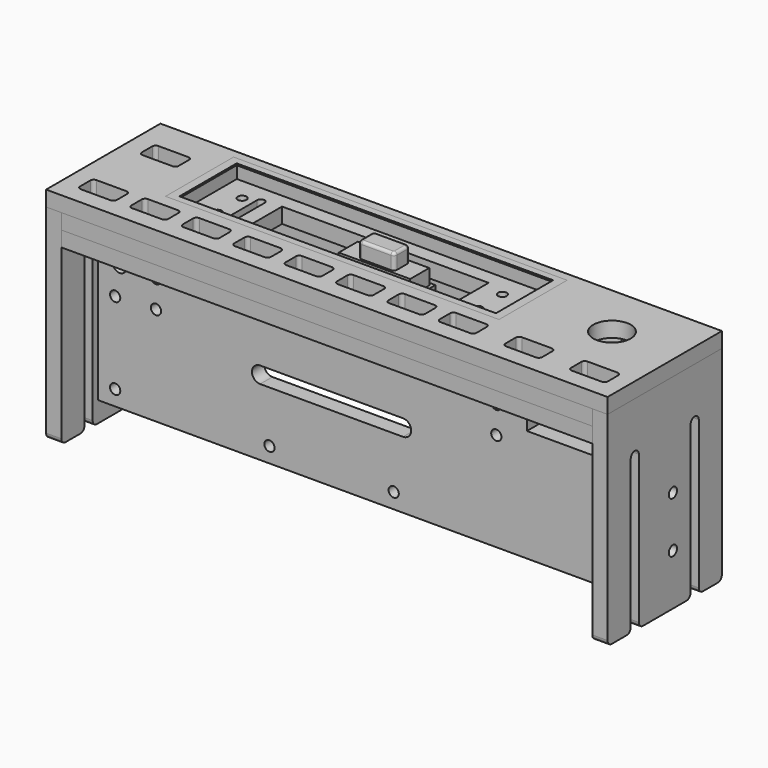
from build123d import *

# Parameters (mm, degrees)
SKETCH038_R       = 2.15
PAD025_DEPTH      = 1.4
SKETCH032_W       = 23
SKETCH032_H       = 9
PAD023_DEPTH      = 3.5
SKETCH031_R       = 1.7
PAD022_DEPTH      = 3.8
PAD022_DEPTH_BACK = 1
FILLET003_R       = 1.7
SKETCH_W          = 21
SKETCH_H          = 7
PAD021_DEPTH      = 4.5
SKETCH039_W       = 23
SKETCH039_H       = 9
PAD026_DEPTH      = 1
SKETCH040_W       = 10
SKETCH040_H       = 9
PAD027_DEPTH      = 10
PAD027_DEPTH_BACK = 1
SKETCH042_W       = 10
SKETCH042_H       = 9
PAD029_DEPTH      = 10
PAD029_DEPTH_BACK = 1
SKETCH041_W       = 7
SKETCH041_H       = 9
PAD028_DEPTH      = 10
PAD028_DEPTH_BACK = 1
SKETCH013_R       = 1.5
PAD030_DEPTH      = 4.5
SKETCH043_R       = 1.5
PAD031_DEPTH      = 4.5
SKETCH048_W       = 165
SKETCH048_H       = 42
SKETCH048_R       = 5.5
SKETCH048_W_2     = 98
SKETCH048_H_2     = 25
PAD033_DEPTH      = 4.5
SKETCH049_W       = 156
SKETCH049_H       = 42
SKETCH049_R       = 1.5
SKETCH049_R_2     = 1.85
SKETCH049_W_2     = 84
SKETCH049_H_2     = 16
SKETCH049_W_3     = 6.65
SKETCH049_H_3     = 6.65
PAD034_DEPTH      = 4.5
SKETCH050_W       = 156
SKETCH050_H       = 42
SKETCH050_R       = 1.3
SKETCH050_R_2     = 1.85
SKETCH050_W_2     = 60.7
SKETCH050_H_2     = 14
PAD035_DEPTH      = 4.5
SKETCH052_W       = 94
SKETCH052_H       = 22.4
PAD037_DEPTH      = 4.5
SKETCH051_W       = 98
SKETCH051_H       = 25
SKETCH051_W_2     = 93
SKETCH051_H_2     = 21
PAD036_DEPTH      = 4.5
SKETCH053_R       = 1.5
SKETCH053_R_2     = 2
PAD038_DEPTH      = 4.5
SKETCH054_W       = 10
SKETCH054_H       = 33
PAD039_DEPTH      = 10
SKETCH055_R       = 1.3
POCKET002_DEPTH   = 8
SKETCH056_R       = 1.3
POCKET003_DEPTH   = 8
SKETCH057_W       = 12
SKETCH057_H       = 22
PAD_DEPTH         = 10
SKETCH058_R       = 1.3
POCKET_DEPTH      = 8
SKETCH059_R       = 1.3
POCKET004_DEPTH   = 8
SKETCH061_W       = 3.25
SKETCH061_H       = 2.2
PAD040_DEPTH      = 3
PAD041_DEPTH      = 9.1
FILLET_R          = 0.8


with BuildPart() as pad_led_base:
    # Sketch038 → Pad025 (new body)
    with BuildSketch(Plane.XY.offset(-1)):
        Circle(SKETCH038_R)
        with Locations((7, 0)):
            Circle(SKETCH038_R)
        with Locations((-7, 0)):
            Circle(SKETCH038_R)
    extrude(amount=-PAD025_DEPTH)


with BuildPart() as cut_marker_mount:
    # Sketch032 → Pad023 (new body)
    with BuildSketch(Plane.XY.offset(-1)):
        Rectangle(SKETCH032_W, SKETCH032_H)
        with BuildLine():
            ThreePointArc((7.7, 2.032855), (7, 2.15), (6.3, 2.032855))
            Line((6.3, 2.032855), (6.3, 0.632855))
            Line((6.3, 0.632855), (7.7, 0.632855))
            Line((7.7, 2.032855), (7.7, 0.632855))
        make_face(mode=Mode.SUBTRACT)
        with BuildLine():
            ThreePointArc((6.3, -2.032855), (7, -2.15), (7.7, -2.032855))
            Line((7.7, -2.032855), (7.7, -0.632855))
            Line((6.3, -0.632855), (7.7, -0.632855))
            Line((6.3, -2.032855), (6.3, -0.632855))
        make_face(mode=Mode.SUBTRACT)
        with BuildLine():
            ThreePointArc((0.7, 2.032855), (0, 2.15), (-0.7, 2.032855))
            Line((-0.7, 2.032855), (-0.7, 0.632855))
            Line((-0.7, 0.632855), (0.7, 0.632855))
            Line((0.7, 2.032855), (0.7, 0.632855))
        make_face(mode=Mode.SUBTRACT)
        with BuildLine():
            ThreePointArc((-0.7, -2.032855), (0, -2.15), (0.7, -2.032855))
            Line((0.7, -2.032855), (0.7, -0.632855))
            Line((-0.7, -0.632855), (0.7, -0.632855))
            Line((-0.7, -2.032855), (-0.7, -0.632855))
        make_face(mode=Mode.SUBTRACT)
        with BuildLine():
            ThreePointArc((-6.3, 2.032855), (-7, 2.15), (-7.7, 2.032855))
            Line((-7.7, 2.032855), (-7.7, 0.632855))
            Line((-7.7, 0.632855), (-6.3, 0.632855))
            Line((-6.3, 2.032855), (-6.3, 0.632855))
        make_face(mode=Mode.SUBTRACT)
        with BuildLine():
            ThreePointArc((-7.7, -2.032855), (-7, -2.15), (-6.3, -2.032855))
            Line((-6.3, -2.032855), (-6.3, -0.632855))
            Line((-7.7, -0.632855), (-6.3, -0.632855))
            Line((-7.7, -2.032855), (-7.7, -0.632855))
        make_face(mode=Mode.SUBTRACT)
    extrude(amount=-PAD023_DEPTH)

    # Cut004: cut Pad (led base)
    add(pad_led_base.part, mode=Mode.SUBTRACT)


with BuildPart() as fillet_led_body:
    # Sketch031 → Pad022 (new body, two sides)
    with BuildSketch(Plane.XY) as pad022_sk:
        Circle(SKETCH031_R)
        with Locations((7, 0)):
            Circle(SKETCH031_R)
        with Locations((-7, 0)):
            Circle(SKETCH031_R)
    extrude(amount=PAD022_DEPTH)
    extrude(pad022_sk.sketch, amount=-PAD022_DEPTH_BACK)

    # Fillet003
    fillet003_edges = [fillet_led_body.edges().sort_by_distance(p)[0] for p in [
        (-8.7, 0, 3.8),
        (5.3, 0, 3.8),
        (-1.7, 0, 3.8),
    ]]
    fillet(fillet003_edges, radius=FILLET003_R)


with BuildPart() as pad_marker_window:
    # Sketch → Pad021 (new body)
    with BuildSketch(Plane.XY):
        Rectangle(SKETCH_W, SKETCH_H)
    extrude(amount=PAD021_DEPTH)


with BuildPart() as cut_marker_window:
    # Sketch039 → Pad026 (new body)
    with BuildSketch(Plane.XY):
        Rectangle(SKETCH039_W, SKETCH039_H)
    extrude(amount=-PAD026_DEPTH)

    # Fusion: union Pad (marker window)
    add(pad_marker_window.part)

    # Cut005: cut Fillet (led body)
    add(fillet_led_body.part, mode=Mode.SUBTRACT)


with BuildPart() as clone_of_cut_marker_window_left:
    # Clone002 base: copy of Cut (marker window)
    add(cut_marker_window.part)


with BuildPart() as common_marker_left:
    # Sketch040 → Pad027 (new body, two sides)
    with BuildSketch(Plane.XY) as pad027_sk:
        with Locations((-8.5, 0)):
            Rectangle(SKETCH040_W, SKETCH040_H)
    extrude(amount=PAD027_DEPTH)
    extrude(pad027_sk.sketch, amount=-PAD027_DEPTH_BACK)

    # Common: intersect Clone of Cut (marker window left)
    add(clone_of_cut_marker_window_left.part, mode=Mode.INTERSECT)


with BuildPart() as clone_of_cut_marker_window_right:
    # Clone003 base: copy of Cut (marker window)
    add(cut_marker_window.part)


with BuildPart() as common_marker_right:
    # Sketch042 → Pad029 (new body, two sides)
    with BuildSketch(Plane.XY) as pad029_sk:
        with Locations((8.5, 0)):
            Rectangle(SKETCH042_W, SKETCH042_H)
    extrude(amount=PAD029_DEPTH)
    extrude(pad029_sk.sketch, amount=-PAD029_DEPTH_BACK)

    # Common001: intersect Clone of Cut (marker window right)
    add(clone_of_cut_marker_window_right.part, mode=Mode.INTERSECT)


with BuildPart() as common_marker_center:
    # Sketch041 → Pad028 (new body, two sides)
    with BuildSketch(Plane.XY) as pad028_sk:
        Rectangle(SKETCH041_W, SKETCH041_H)
    extrude(amount=PAD028_DEPTH)
    extrude(pad028_sk.sketch, amount=-PAD028_DEPTH_BACK)

    # Common002: intersect Cut (marker window)
    add(cut_marker_window.part, mode=Mode.INTERSECT)


with BuildPart() as pad_right_side:
    # Sketch013 → Pad030 (new body)
    with BuildSketch(Plane.YZ.offset(78)):
        with BuildLine():
            Line((21, 0), (-21, 0))
            Line((-21, 0), (-21, -58.5))
            ThreePointArc((-21, -58.5), (-20.56066, -59.56066), (-19.5, -60))
            Line((-19.5, -60), (-14, -60))
            ThreePointArc((-14, -60), (-12.93934, -59.56066), (-12.5, -58.5))
            Line((-12.5, -15), (-12.5, -58.5))
            ThreePointArc((-9.5, -15), (-11, -13.5), (-12.5, -15))
            Line((-9.5, -15), (-9.5, -58.5))
            ThreePointArc((-9.5, -58.5), (-9.06066, -59.56066), (-8, -60))
            Line((-8, -60), (7.99999, -60))
            ThreePointArc((7.99999, -60), (9.060657, -59.560664), (9.5, -58.5))
            Line((9.5, -15), (9.5, -58.5))
            ThreePointArc((12.5, -15), (11, -13.5), (9.5, -15))
            Line((12.5, -15), (12.5, -58.5))
            ThreePointArc((12.5, -58.5), (12.93934, -59.56066), (14, -60))
            Line((14, -60), (19.5, -60))
            ThreePointArc((19.5, -60), (20.56066, -59.56066), (21, -58.5))
            Line((21, -58.5), (21, 0))
        make_face()
        with Locations((3, -30)):
            Circle(SKETCH013_R, mode=Mode.SUBTRACT)
        with Locations((3, -45)):
            Circle(SKETCH013_R, mode=Mode.SUBTRACT)
    extrude(amount=PAD030_DEPTH)


with BuildPart() as pad_left_side:
    # Sketch043 → Pad031 (new body)
    with BuildSketch(Plane.YZ.offset(-78)):
        with BuildLine():
            Line((-21, 0), (-21, -58.5))
            ThreePointArc((-21, -58.5), (-20.56066, -59.56066), (-19.5, -60))
            Line((-19.5, -60), (-14, -60))
            ThreePointArc((-14, -60), (-12.93934, -59.56066), (-12.5, -58.5))
            Line((-12.5, -15), (-12.5, -58.5))
            ThreePointArc((-9.5, -15), (-11, -13.5), (-12.5, -15))
            Line((-9.5, -15), (-9.5, -58.5))
            ThreePointArc((-9.5, -58.5), (-9.06066, -59.56066), (-8, -60))
            Line((-8, -60), (7.99999, -60))
            ThreePointArc((7.99999, -60), (9.060656, -59.560664), (9.5, -58.5))
            Line((9.5, -15), (9.5, -58.5))
            ThreePointArc((12.5, -15), (11, -13.5), (9.5, -15))
            Line((12.5, -15), (12.5, -58.5))
            ThreePointArc((12.5, -58.5), (12.93934, -59.56066), (14, -60))
            Line((14, -60), (19.5, -60))
            ThreePointArc((19.5, -60), (20.56066, -59.56066), (21, -58.5))
            Line((21, -58.5), (21, 0))
            Line((-21, 0), (21, 0))
        make_face()
        with Locations((3, -30)):
            Circle(SKETCH043_R, mode=Mode.SUBTRACT)
        with Locations((3, -45)):
            Circle(SKETCH043_R, mode=Mode.SUBTRACT)
    extrude(amount=-PAD031_DEPTH)


with BuildPart() as pad_faceplate:
    # Sketch048 → Pad033 (new body)
    with BuildSketch(Plane.XY):
        Rectangle(SKETCH048_W, SKETCH048_H)
        with Locations((63, 5)):
            Circle(SKETCH048_R, mode=Mode.SUBTRACT)
        with BuildLine():
            Line((-76.4, -10.1), (-67.6, -10.1))
            ThreePointArc((-66.6, -11.1), (-66.892893, -10.392893), (-67.6, -10.1))
            Line((-66.6, -11.1), (-66.6, -14.9))
            ThreePointArc((-67.6, -15.9), (-66.892893, -15.607107), (-66.6, -14.9))
            Line((-67.6, -15.9), (-76.4, -15.9))
            ThreePointArc((-77.4, -14.9), (-77.107107, -15.607107), (-76.4, -15.9))
            Line((-77.4, -14.9), (-77.4, -11.1))
            ThreePointArc((-76.4, -10.1), (-77.107107, -10.392893), (-77.4, -11.1))
        make_face(mode=Mode.SUBTRACT)
        with BuildLine():
            Line((-61.3, -10.1), (-52.5, -10.1))
            ThreePointArc((-51.5, -11.1), (-51.792893, -10.392893), (-52.5, -10.1))
            Line((-51.5, -11.1), (-51.5, -14.9))
            ThreePointArc((-52.5, -15.9), (-51.792893, -15.607107), (-51.5, -14.9))
            Line((-52.5, -15.9), (-61.3, -15.9))
            ThreePointArc((-62.3, -14.9), (-62.007107, -15.607107), (-61.3, -15.9))
            Line((-62.3, -14.9), (-62.3, -11.1))
            ThreePointArc((-61.3, -10.1), (-62.007107, -10.392893), (-62.3, -11.1))
        make_face(mode=Mode.SUBTRACT)
        with BuildLine():
            Line((-46.2, -10.1), (-37.4, -10.1))
            ThreePointArc((-36.4, -11.1), (-36.692893, -10.392893), (-37.4, -10.1))
            Line((-36.4, -11.1), (-36.4, -14.9))
            ThreePointArc((-37.4, -15.9), (-36.692893, -15.607107), (-36.4, -14.9))
            Line((-37.4, -15.9), (-46.2, -15.9))
            ThreePointArc((-47.2, -14.9), (-46.907107, -15.607107), (-46.2, -15.9))
            Line((-47.2, -14.9), (-47.2, -11.1))
            ThreePointArc((-46.2, -10.1), (-46.907107, -10.392893), (-47.2, -11.1))
        make_face(mode=Mode.SUBTRACT)
        with BuildLine():
            Line((-31.1, -10.1), (-22.3, -10.1))
            ThreePointArc((-21.3, -11.1), (-21.592893, -10.392893), (-22.3, -10.1))
            Line((-21.3, -11.1), (-21.3, -14.9))
            ThreePointArc((-22.3, -15.9), (-21.592893, -15.607107), (-21.3, -14.9))
            Line((-22.3, -15.9), (-31.1, -15.9))
            ThreePointArc((-32.1, -14.9), (-31.807107, -15.607107), (-31.1, -15.9))
            Line((-32.1, -14.9), (-32.1, -11.1))
            ThreePointArc((-31.1, -10.1), (-31.807107, -10.392893), (-32.1, -11.1))
        make_face(mode=Mode.SUBTRACT)
        with BuildLine():
            Line((-16, -10.1), (-7.2, -10.1))
            ThreePointArc((-6.2, -11.1), (-6.492893, -10.392893), (-7.2, -10.1))
            Line((-6.2, -11.1), (-6.2, -14.9))
            ThreePointArc((-7.2, -15.9), (-6.492893, -15.607107), (-6.2, -14.9))
            Line((-7.2, -15.9), (-16, -15.9))
            ThreePointArc((-17, -14.9), (-16.707107, -15.607107), (-16, -15.9))
            Line((-17, -14.9), (-17, -11.1))
            ThreePointArc((-16, -10.1), (-16.707107, -10.392893), (-17, -11.1))
        make_face(mode=Mode.SUBTRACT)
        with BuildLine():
            Line((-0.9, -10.1), (7.9, -10.1))
            ThreePointArc((8.9, -11.1), (8.607107, -10.392893), (7.9, -10.1))
            Line((8.9, -11.1), (8.9, -14.9))
            ThreePointArc((7.9, -15.9), (8.607107, -15.607107), (8.9, -14.9))
            Line((7.9, -15.9), (-0.9, -15.9))
            ThreePointArc((-1.9, -14.9), (-1.607107, -15.607107), (-0.9, -15.9))
            Line((-1.9, -14.9), (-1.9, -11.1))
            ThreePointArc((-0.9, -10.1), (-1.607107, -10.392893), (-1.9, -11.1))
        make_face(mode=Mode.SUBTRACT)
        with BuildLine():
            Line((14.2, -10.1), (23, -10.1))
            ThreePointArc((24, -11.1), (23.707107, -10.392893), (23, -10.1))
            Line((24, -11.1), (24, -14.9))
            ThreePointArc((23, -15.9), (23.707107, -15.607107), (24, -14.9))
            Line((23, -15.9), (14.2, -15.9))
            ThreePointArc((13.2, -14.9), (13.492893, -15.607107), (14.2, -15.9))
            Line((13.2, -14.9), (13.2, -11.1))
            ThreePointArc((14.2, -10.1), (13.492893, -10.392893), (13.2, -11.1))
        make_face(mode=Mode.SUBTRACT)
        with BuildLine():
            Line((29.3, -10.1), (38.1, -10.1))
            ThreePointArc((39.1, -11.1), (38.807107, -10.392893), (38.1, -10.1))
            Line((39.1, -11.1), (39.1, -14.9))
            ThreePointArc((38.1, -15.9), (38.807107, -15.607107), (39.1, -14.9))
            Line((38.1, -15.9), (29.3, -15.9))
            ThreePointArc((28.3, -14.9), (28.592893, -15.607107), (29.3, -15.9))
            Line((28.3, -14.9), (28.3, -11.1))
            ThreePointArc((29.3, -10.1), (28.592893, -10.392893), (28.3, -11.1))
        make_face(mode=Mode.SUBTRACT)
        with BuildLine():
            Line((48.6, -10.1), (57.4, -10.1))
            ThreePointArc((58.4, -11.1), (58.107107, -10.392893), (57.4, -10.1))
            Line((58.4, -11.1), (58.4, -14.9))
            ThreePointArc((57.4, -15.9), (58.107107, -15.607107), (58.4, -14.9))
            Line((57.4, -15.9), (48.6, -15.9))
            ThreePointArc((47.6, -14.9), (47.892893, -15.607107), (48.6, -15.9))
            Line((47.6, -14.9), (47.6, -11.1))
            ThreePointArc((48.6, -10.1), (47.892893, -10.392893), (47.6, -11.1))
        make_face(mode=Mode.SUBTRACT)
        with BuildLine():
            Line((67.9, -10.1), (76.7, -10.1))
            ThreePointArc((77.7, -11.1), (77.407107, -10.392893), (76.7, -10.1))
            Line((77.7, -11.1), (77.7, -14.9))
            ThreePointArc((76.7, -15.9), (77.407107, -15.607107), (77.7, -14.9))
            Line((76.7, -15.9), (67.9, -15.9))
            ThreePointArc((66.9, -14.9), (67.192893, -15.607107), (67.9, -15.9))
            Line((66.9, -14.9), (66.9, -11.1))
            ThreePointArc((67.9, -10.1), (67.192893, -10.392893), (66.9, -11.1))
        make_face(mode=Mode.SUBTRACT)
        with BuildLine():
            Line((-75.9, 12), (-67.1, 12))
            ThreePointArc((-66.1, 11), (-66.392893, 11.707107), (-67.1, 12))
            Line((-66.1, 11), (-66.1, 7.2))
            ThreePointArc((-67.1, 6.2), (-66.392893, 6.492893), (-66.1, 7.2))
            Line((-67.1, 6.2), (-75.9, 6.2))
            ThreePointArc((-76.9, 7.2), (-76.607107, 6.492893), (-75.9, 6.2))
            Line((-76.9, 7.2), (-76.9, 11))
            ThreePointArc((-75.9, 12), (-76.607107, 11.707107), (-76.9, 11))
        make_face(mode=Mode.SUBTRACT)
        with Locations((-10, 6)):
            Rectangle(SKETCH048_W_2, SKETCH048_H_2, mode=Mode.SUBTRACT)
    extrude(amount=PAD033_DEPTH)


with BuildPart() as pad_hardware_mount:
    # Sketch049 → Pad034 (new body)
    with BuildSketch(Plane.XY.offset(-4.5)):
        Rectangle(SKETCH049_W, SKETCH049_H)
        with Locations((39, 2)):
            Circle(SKETCH049_R, mode=Mode.SUBTRACT)
        with Locations((-61, 2)):
            Circle(SKETCH049_R, mode=Mode.SUBTRACT)
        with Locations((43.5, 16)):
            Circle(SKETCH049_R_2, mode=Mode.SUBTRACT)
        with Locations((43.5, -13)):
            Circle(SKETCH049_R_2, mode=Mode.SUBTRACT)
        with Locations((-64.4, 16)):
            Circle(SKETCH049_R_2, mode=Mode.SUBTRACT)
        with Locations((-64.4, -13)):
            Circle(SKETCH049_R_2, mode=Mode.SUBTRACT)
        with BuildLine():
            ThreePointArc((57, 15.965856), (50.5, 5), (57, -5.965856))
            Line((57, -8.75), (57, -5.965856))
            Line((69, -8.75), (57, -8.75))
            Line((69, -5.965856), (69, -8.75))
            ThreePointArc((69, -5.965856), (75.5, 5), (69, 15.965856))
            Line((69, 18.75), (69, 15.965856))
            Line((57, 18.75), (69, 18.75))
            Line((57, 15.965856), (57, 18.75))
        make_face(mode=Mode.SUBTRACT)
        with Locations((-12.5, 6)):
            Rectangle(SKETCH049_W_2, SKETCH049_H_2, mode=Mode.SUBTRACT)
        with Locations((-71.5, 9.1)):
            Rectangle(SKETCH049_W_3, SKETCH049_H_3, mode=Mode.SUBTRACT)
        with Locations((-56.9, -13)):
            Rectangle(SKETCH049_W_3, SKETCH049_H_3, mode=Mode.SUBTRACT)
        with Locations((-41.8, -13)):
            Rectangle(SKETCH049_W_3, SKETCH049_H_3, mode=Mode.SUBTRACT)
        with Locations((-11.6, -13)):
            Rectangle(SKETCH049_W_3, SKETCH049_H_3, mode=Mode.SUBTRACT)
        with Locations((-26.7, -13)):
            Rectangle(SKETCH049_W_3, SKETCH049_H_3, mode=Mode.SUBTRACT)
        with Locations((53, -13)):
            Rectangle(SKETCH049_W_3, SKETCH049_H_3, mode=Mode.SUBTRACT)
        with Locations((72.3, -13)):
            Rectangle(SKETCH049_W_3, SKETCH049_H_3, mode=Mode.SUBTRACT)
        with Locations((33.7, -13)):
            Rectangle(SKETCH049_W_3, SKETCH049_H_3, mode=Mode.SUBTRACT)
        with Locations((18.6, -13)):
            Rectangle(SKETCH049_W_3, SKETCH049_H_3, mode=Mode.SUBTRACT)
        with Locations((3.5, -13)):
            Rectangle(SKETCH049_W_3, SKETCH049_H_3, mode=Mode.SUBTRACT)
        with Locations((-72, -13)):
            Rectangle(SKETCH049_W_3, SKETCH049_H_3, mode=Mode.SUBTRACT)
    extrude(amount=-PAD034_DEPTH)


with BuildPart() as pad_spacer:
    # Sketch050 → Pad035 (new body)
    with BuildSketch(Plane.XY):
        Rectangle(SKETCH050_W, SKETCH050_H)
        with Locations((26.4, 10.5)):
            Circle(SKETCH050_R, mode=Mode.SUBTRACT)
        with Locations((26.4, 1.5)):
            Circle(SKETCH050_R, mode=Mode.SUBTRACT)
        with Locations((-50.1, 10.5)):
            Circle(SKETCH050_R, mode=Mode.SUBTRACT)
        with Locations((-50.1, 1.5)):
            Circle(SKETCH050_R, mode=Mode.SUBTRACT)
        with Locations((-64.4, 16)):
            Circle(SKETCH050_R_2, mode=Mode.SUBTRACT)
        with Locations((43.5, 16)):
            Circle(SKETCH050_R_2, mode=Mode.SUBTRACT)
        with Locations((43.5, -13)):
            Circle(SKETCH050_R_2, mode=Mode.SUBTRACT)
        with Locations((-64.4, -13)):
            Circle(SKETCH050_R_2, mode=Mode.SUBTRACT)
        with BuildLine():
            ThreePointArc((57, 15.965856), (50.5, 5), (57, -5.965856))
            Line((57, -8.75), (57, -5.965856))
            Line((69, -8.75), (57, -8.75))
            Line((69, -5.965856), (69, -8.75))
            ThreePointArc((69, -5.965856), (75.5, 5), (69, 15.965856))
            Line((69, 18.75), (69, 15.965856))
            Line((57, 18.75), (69, 18.75))
            Line((57, 15.965856), (57, 18.75))
        make_face(mode=Mode.SUBTRACT)
        with BuildLine():
            Line((-76.5, -10.1), (-67.5, -10.1))
            ThreePointArc((-66.5, -11.1), (-66.792893, -10.392893), (-67.5, -10.1))
            Line((-66.5, -11.1), (-66.5, -14.9))
            ThreePointArc((-67.5, -15.9), (-66.792893, -15.607107), (-66.5, -14.9))
            Line((-67.5, -15.9), (-76.5, -15.9))
            ThreePointArc((-77.5, -14.9), (-77.207107, -15.607107), (-76.5, -15.9))
            Line((-77.5, -14.9), (-77.5, -11.1))
            ThreePointArc((-76.5, -10.1), (-77.207107, -10.392893), (-77.5, -11.1))
        make_face(mode=Mode.SUBTRACT)
        with BuildLine():
            Line((-61.4, -10.1), (-52.4, -10.1))
            ThreePointArc((-51.4, -11.1), (-51.692893, -10.392893), (-52.4, -10.1))
            Line((-51.4, -11.1), (-51.4, -14.9))
            ThreePointArc((-52.4, -15.9), (-51.692893, -15.607107), (-51.4, -14.9))
            Line((-52.4, -15.9), (-61.4, -15.9))
            ThreePointArc((-62.4, -14.9), (-62.107107, -15.607107), (-61.4, -15.9))
            Line((-62.4, -14.9), (-62.4, -11.1))
            ThreePointArc((-61.4, -10.1), (-62.107107, -10.392893), (-62.4, -11.1))
        make_face(mode=Mode.SUBTRACT)
        with BuildLine():
            Line((-46.3, -10.1), (-37.3, -10.1))
            ThreePointArc((-36.3, -11.1), (-36.592893, -10.392893), (-37.3, -10.1))
            Line((-36.3, -11.1), (-36.3, -14.9))
            ThreePointArc((-37.3, -15.9), (-36.592893, -15.607107), (-36.3, -14.9))
            Line((-37.3, -15.9), (-46.3, -15.9))
            ThreePointArc((-47.3, -14.9), (-47.007107, -15.607107), (-46.3, -15.9))
            Line((-47.3, -14.9), (-47.3, -11.1))
            ThreePointArc((-46.3, -10.1), (-47.007107, -10.392893), (-47.3, -11.1))
        make_face(mode=Mode.SUBTRACT)
        with BuildLine():
            Line((-31.2, -10.1), (-22.2, -10.1))
            ThreePointArc((-21.2, -11.1), (-21.492893, -10.392893), (-22.2, -10.1))
            Line((-21.2, -11.1), (-21.2, -14.9))
            ThreePointArc((-22.2, -15.9), (-21.492893, -15.607107), (-21.2, -14.9))
            Line((-22.2, -15.9), (-31.2, -15.9))
            ThreePointArc((-32.2, -14.9), (-31.907107, -15.607107), (-31.2, -15.9))
            Line((-32.2, -14.9), (-32.2, -11.1))
            ThreePointArc((-31.2, -10.1), (-31.907107, -10.392893), (-32.2, -11.1))
        make_face(mode=Mode.SUBTRACT)
        with BuildLine():
            Line((-16.1, -10.1), (-7.1, -10.1))
            ThreePointArc((-6.1, -11.1), (-6.392893, -10.392893), (-7.1, -10.1))
            Line((-6.1, -11.1), (-6.1, -14.9))
            ThreePointArc((-7.1, -15.9), (-6.392893, -15.607107), (-6.1, -14.9))
            Line((-7.1, -15.9), (-16.1, -15.9))
            ThreePointArc((-17.1, -14.9), (-16.807107, -15.607107), (-16.1, -15.9))
            Line((-17.1, -14.9), (-17.1, -11.1))
            ThreePointArc((-16.1, -10.1), (-16.807107, -10.392893), (-17.1, -11.1))
        make_face(mode=Mode.SUBTRACT)
        with BuildLine():
            Line((-1, -10.1), (8, -10.1))
            ThreePointArc((9, -11.1), (8.707107, -10.392893), (8, -10.1))
            Line((9, -11.1), (9, -14.9))
            ThreePointArc((8, -15.9), (8.707107, -15.607107), (9, -14.9))
            Line((8, -15.9), (-1, -15.9))
            ThreePointArc((-2, -14.9), (-1.707107, -15.607107), (-1, -15.9))
            Line((-2, -14.9), (-2, -11.1))
            ThreePointArc((-1, -10.1), (-1.707107, -10.392893), (-2, -11.1))
        make_face(mode=Mode.SUBTRACT)
        with BuildLine():
            Line((14.1, -10.1), (23.1, -10.1))
            ThreePointArc((24.1, -11.1), (23.807107, -10.392893), (23.1, -10.1))
            Line((24.1, -11.1), (24.1, -14.9))
            ThreePointArc((23.1, -15.9), (23.807107, -15.607107), (24.1, -14.9))
            Line((23.1, -15.9), (14.1, -15.9))
            ThreePointArc((13.1, -14.9), (13.392893, -15.607107), (14.1, -15.9))
            Line((13.1, -14.9), (13.1, -11.1))
            ThreePointArc((14.1, -10.1), (13.392893, -10.392893), (13.1, -11.1))
        make_face(mode=Mode.SUBTRACT)
        with BuildLine():
            Line((29.2, -10.1), (38.2, -10.1))
            ThreePointArc((39.2, -11.1), (38.907107, -10.392893), (38.2, -10.1))
            Line((39.2, -11.1), (39.2, -14.9))
            ThreePointArc((38.2, -15.9), (38.907107, -15.607107), (39.2, -14.9))
            Line((38.2, -15.9), (29.2, -15.9))
            ThreePointArc((28.2, -14.9), (28.492893, -15.607107), (29.2, -15.9))
            Line((28.2, -14.9), (28.2, -11.1))
            ThreePointArc((29.2, -10.1), (28.492893, -10.392893), (28.2, -11.1))
        make_face(mode=Mode.SUBTRACT)
        with BuildLine():
            Line((48.5, -10.1), (57.5, -10.1))
            ThreePointArc((58.5, -11.1), (58.207107, -10.392893), (57.5, -10.1))
            Line((58.5, -11.1), (58.5, -14.9))
            ThreePointArc((57.5, -15.9), (58.207107, -15.607107), (58.5, -14.9))
            Line((57.5, -15.9), (48.5, -15.9))
            ThreePointArc((47.5, -14.9), (47.792893, -15.607107), (48.5, -15.9))
            Line((47.5, -14.9), (47.5, -11.1))
            ThreePointArc((48.5, -10.1), (47.792893, -10.392893), (47.5, -11.1))
        make_face(mode=Mode.SUBTRACT)
        with BuildLine():
            Line((67.8, -10.1), (76.8, -10.1))
            ThreePointArc((77.8, -11.1), (77.507107, -10.392893), (76.8, -10.1))
            Line((77.8, -11.1), (77.8, -14.9))
            ThreePointArc((76.8, -15.9), (77.507107, -15.607107), (77.8, -14.9))
            Line((76.8, -15.9), (67.8, -15.9))
            ThreePointArc((66.8, -14.9), (67.092893, -15.607107), (67.8, -15.9))
            Line((66.8, -14.9), (66.8, -11.1))
            ThreePointArc((67.8, -10.1), (67.092893, -10.392893), (66.8, -11.1))
        make_face(mode=Mode.SUBTRACT)
        with BuildLine():
            Line((-76, 12), (-67, 12))
            ThreePointArc((-66, 11), (-66.292893, 11.707107), (-67, 12))
            Line((-66, 11), (-66, 7.2))
            ThreePointArc((-67, 6.2), (-66.292893, 6.492893), (-66, 7.2))
            Line((-67, 6.2), (-76, 6.2))
            ThreePointArc((-77, 7.2), (-76.707107, 6.492893), (-76, 6.2))
            Line((-77, 7.2), (-77, 11))
            ThreePointArc((-76, 12), (-76.707107, 11.707107), (-77, 11))
        make_face(mode=Mode.SUBTRACT)
        with Locations((-10, 6)):
            Rectangle(SKETCH050_W_2, SKETCH050_H_2, mode=Mode.SUBTRACT)
        with BuildLine():
            ThreePointArc((-44.6, 11.9), (-45.7, 13), (-46.8, 11.9))
            Line((-46.8, 11.9), (-46.8, 0.1))
            ThreePointArc((-46.8, 0.1), (-45.7, -1), (-44.6, 0.1))
            Line((-44.6, 11.9), (-44.6, 0.1))
        make_face(mode=Mode.SUBTRACT)
    extrude(amount=-PAD035_DEPTH)


with BuildPart() as pad037:
    # Sketch052 → Pad037 (new body)
    with BuildSketch(Plane.XY.offset(-0.5)):
        with Locations((-10, 6)):
            Rectangle(SKETCH052_W, SKETCH052_H)
    extrude(amount=PAD037_DEPTH)


with BuildPart() as cut_bezel:
    # Sketch051 → Pad036 (new body)
    with BuildSketch(Plane.XY):
        with Locations((-10, 6)):
            Rectangle(SKETCH051_W, SKETCH051_H)
        with Locations((-10, 6)):
            Rectangle(SKETCH051_W_2, SKETCH051_H_2, mode=Mode.SUBTRACT)
    extrude(amount=PAD036_DEPTH)

    # Cut006: cut Pad037
    add(pad037.part, mode=Mode.SUBTRACT)


with BuildPart() as pad_electronics_mount:
    # Sketch053 → Pad038 (new body)
    with BuildSketch(Plane(origin=(0, -3, 0), x_dir=(-1, 0, 0), z_dir=(0, 1, 0))):
        Polygon((-48, -9), (78, -9), (78, -54), (-78, -54), (-78, -21), (-48, -21), align=None)
        with Locations((-73, -49.5)):
            Circle(SKETCH053_R, mode=Mode.SUBTRACT)
        with Locations((-73, -25.5)):
            Circle(SKETCH053_R, mode=Mode.SUBTRACT)
        with Locations((73, -25.5)):
            Circle(SKETCH053_R, mode=Mode.SUBTRACT)
        with Locations((73, -49.5)):
            Circle(SKETCH053_R, mode=Mode.SUBTRACT)
        with Locations((61, -17)):
            Circle(SKETCH053_R, mode=Mode.SUBTRACT)
        with Locations((61, -25)):
            Circle(SKETCH053_R, mode=Mode.SUBTRACT)
        with Locations((-39, -17)):
            Circle(SKETCH053_R, mode=Mode.SUBTRACT)
        with Locations((-39, -25)):
            Circle(SKETCH053_R, mode=Mode.SUBTRACT)
        with Locations((-8.846207, -49.5)):
            Circle(SKETCH053_R, mode=Mode.SUBTRACT)
        with Locations((27.653793, -49.5)):
            Circle(SKETCH053_R, mode=Mode.SUBTRACT)
        with Locations((71.679885, -17.052714)):
            Circle(SKETCH053_R_2, mode=Mode.SUBTRACT)
        with BuildLine():
            ThreePointArc((-11.596207, -29.55), (-13.996207, -31.95), (-11.596207, -34.35))
            Line((-11.596207, -34.35), (30.403793, -34.35))
            ThreePointArc((30.403793, -34.35), (32.803793, -31.95), (30.403793, -29.55))
            Line((-11.596207, -29.55), (30.403793, -29.55))
        make_face(mode=Mode.SUBTRACT)
    extrude(amount=-PAD038_DEPTH)


with BuildPart() as pocket_side_bracket_side_holes:
    # Sketch054 → Pad039 (new body)
    with BuildSketch(Plane(origin=(0, -3, 0), x_dir=(-1, 0, 0), z_dir=(0, 1, 0))):
        with Locations((-73, -37.5)):
            Rectangle(SKETCH054_W, SKETCH054_H)
    extrude(amount=PAD039_DEPTH)

    # Sketch055 → Pocket002 (cut)
    with BuildSketch(Plane(origin=(0, -3, 0), x_dir=(-1, 0, 0), z_dir=(0, -1, 0))):
        with Locations((-73, 49.5)):
            Circle(SKETCH055_R)
        with Locations((-73, 25.5)):
            Circle(SKETCH055_R)
    extrude(amount=-POCKET002_DEPTH, mode=Mode.SUBTRACT)

    # Sketch056 → Pocket003 (cut)
    with BuildSketch(Plane(origin=(78, -3, 0), x_dir=(0, 0, -1), z_dir=(1, 0, 0))):
        with Locations((30, 6)):
            Circle(SKETCH056_R)
        with Locations((45, 6)):
            Circle(SKETCH056_R)
    extrude(amount=-POCKET003_DEPTH, mode=Mode.SUBTRACT)


with BuildPart() as pocket_front_bracket_front_hole:
    # Sketch057 → Pad (new body)
    with BuildSketch(Plane(origin=(0, -3, 0), x_dir=(-1, 0, 0), z_dir=(0, 1, 0))):
        with Locations((-39.011939, -20)):
            Rectangle(SKETCH057_W, SKETCH057_H)
    extrude(amount=PAD_DEPTH)

    # Sketch058 → Pocket (cut)
    with BuildSketch(Plane(origin=(0, -3, 0), x_dir=(-1, 0, 0), z_dir=(0, -1, 0))):
        with Locations((-39.011939, 25)):
            Circle(SKETCH058_R)
        with Locations((-39.011939, 17)):
            Circle(SKETCH058_R)
    extrude(amount=-POCKET_DEPTH, mode=Mode.SUBTRACT)

    # Sketch059 → Pocket004 (cut)
    with BuildSketch(Plane(origin=(0, -3, -9), x_dir=(1, 0, 0), z_dir=(0, 0, 1))):
        with Locations((39.011939, 5)):
            Circle(SKETCH059_R)
    extrude(amount=-POCKET004_DEPTH, mode=Mode.SUBTRACT)


with BuildPart() as pad_button_hole:
    # Sketch061 → Pad040 (new body)
    with BuildSketch(Plane.XY):
        Rectangle(SKETCH061_W, SKETCH061_H)
    extrude(amount=PAD040_DEPTH)


with BuildPart() as cut_button:
    # Sketch060 → Pad041 (new body)
    with BuildSketch(Plane.XY):
        with BuildLine():
            Line((-4.3, 2.8), (4.3, 2.8))
            ThreePointArc((5.3, 1.8), (5.007107, 2.507107), (4.3, 2.8))
            Line((5.3, 1.8), (5.3, -1.8))
            ThreePointArc((4.3, -2.8), (5.007107, -2.507107), (5.3, -1.8))
            Line((4.3, -2.8), (-4.3, -2.8))
            ThreePointArc((-5.3, -1.8), (-5.007107, -2.507107), (-4.3, -2.8))
            Line((-5.3, -1.8), (-5.3, 1.8))
            ThreePointArc((-4.3, 2.8), (-5.007107, 2.507107), (-5.3, 1.8))
        make_face()
    extrude(amount=PAD041_DEPTH)

    # Fillet
    fillet_edges = [cut_button.edges().sort_by_distance(p)[0] for p in [
        (-5.3, 0, 9.1),
        (-5.007107, 2.507107, 9.1),
        (0, 2.8, 9.1),
        (5.007107, 2.507107, 9.1),
        (5.3, 0, 9.1),
        (5.007107, -2.507107, 9.1),
        (0, -2.8, 9.1),
        (-5.007107, -2.507107, 9.1),
    ]]
    fillet(fillet_edges, radius=FILLET_R)

    # Cut: cut Pad (button hole)
    add(pad_button_hole.part, mode=Mode.SUBTRACT)


solid = Compound([cut_marker_mount.part, common_marker_left.part, common_marker_right.part, common_marker_center.part, pad_right_side.part, pad_left_side.part, pad_faceplate.part, pad_hardware_mount.part, pad_spacer.part, cut_bezel.part, pad_electronics_mount.part, pocket_side_bracket_side_holes.part, pocket_front_bracket_front_hole.part, cut_button.part])
